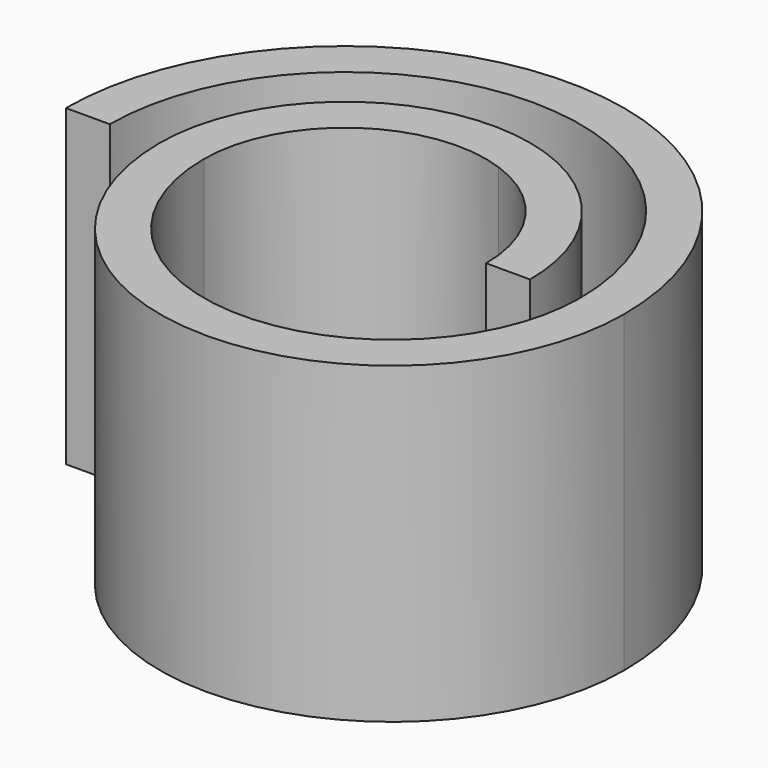
from build123d import *

# Parameters (mm, degrees)
F1_DEPTH = 10


with BuildPart() as f1:
    # F0 (on Top) → F1 (new body)
    with BuildSketch(Plane.XY):
        with BuildLine():
            ThreePointArc((0, 4.242641), (2.174235, 2.598076), (3, 0))
            Line((3, 0), (4.4, 0))
            ThreePointArc((4.4, 0), (3.31733, 3.406367), (0.466667, 5.562573))
            ThreePointArc((0.466667, 5.562573), (-4.906367, 4.81733), (-7.4, 0))
            ThreePointArc((-7.4, 0), (0, -7.4), (7.4, 0))
            ThreePointArc((7.4, 0), (-1.5, 8.9), (-10.4, 0))
            Line((-10.4, 0), (-9, 0))
            ThreePointArc((-9, 0), (-1.5, 7.5), (6, 0))
            ThreePointArc((6, 0), (0, -6), (-6, 0))
            ThreePointArc((-6, 0), (-4.098076, 3.674235), (0, 4.242641))
        make_face()
    extrude(amount=F1_DEPTH)


solid = f1.part
